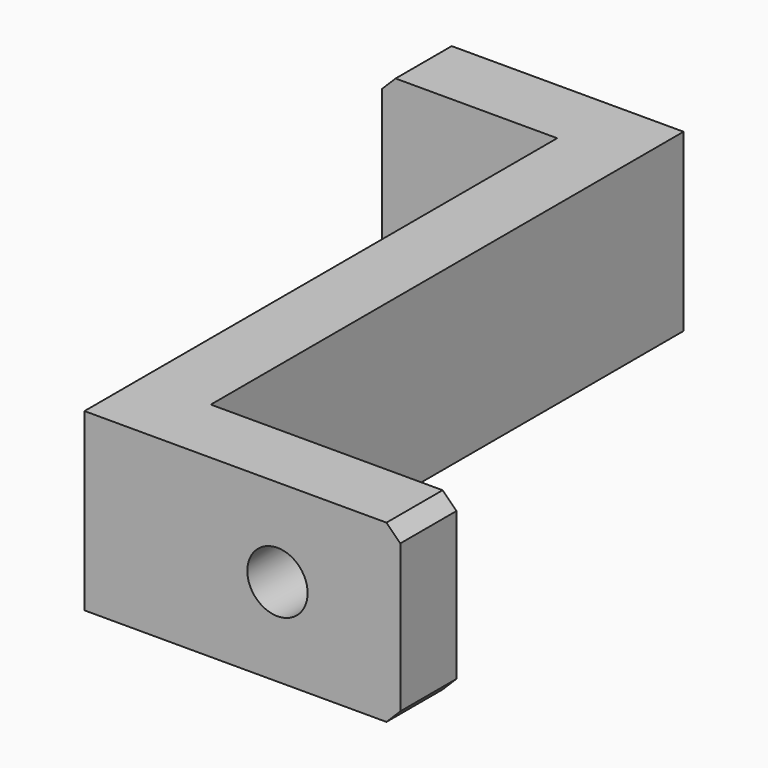
from build123d import *

# Parameters (mm, degrees)
PAD_DEPTH    = 12.7
SKETCH001_R  = 2.182812
POCKET_DEPTH = 42.7746
CHAMFER_SIZE = 1


with BuildPart() as part:
    # Sketch → Pad (new body)
    with BuildSketch(Plane.XY):
        Polygon((0, -42.7736), (22.86, -42.7736), (22.86, -37.6936), (5.08, -37.6936), (5.08, 5.08), (-12.7, 5.08), (-12.7, 0), (0, 0), align=None)
    extrude(amount=PAD_DEPTH)

    # Sketch001 → Pocket (cut, through all)
    with BuildSketch(Plane.XZ):
        with Locations((13.97, 6.35)):
            Circle(SKETCH001_R)
    extrude(amount=POCKET_DEPTH, mode=Mode.SUBTRACT)

    # Chamfer
    chamfer_edges = [part.edges().sort_by_distance(p)[0] for p in [
        (22.86, -40.2336, 0),
        (22.86, -40.2336, 12.7),
        (-12.7, 2.54, 0),
        (-12.7, 2.54, 12.7),
    ]]
    chamfer(chamfer_edges, length=CHAMFER_SIZE)


solid = part.part
